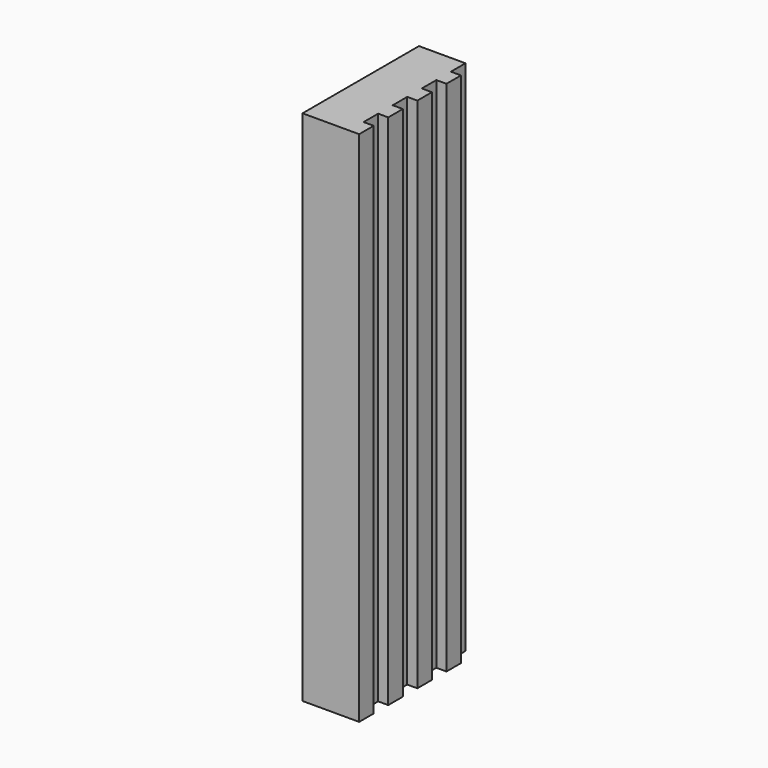
from build123d import *

# Parameters (mm, degrees)
F1_DEPTH = 203.2


with BuildPart() as f1:
    # F0 (on Top) → F1 (new body, symmetric)
    with BuildSketch(Plane.XY):
        Polygon((14.2875, 57.15), (-22.225, 57.15), (-22.225, -57.15), (22.225, -57.15), (22.225, -42.8625), (14.2875, -42.8625), (14.2875, -28.575), (22.225, -28.575), (22.225, -14.2875), (14.2875, -14.2875), (14.2875, 0), (22.225, 0), (22.225, 14.2875), (14.2875, 14.2875), (14.2875, 28.575), (22.225, 28.575), (22.225, 42.8625), (14.2875, 42.8625), align=None)
    extrude(amount=F1_DEPTH, both=True)


solid = f1.part
